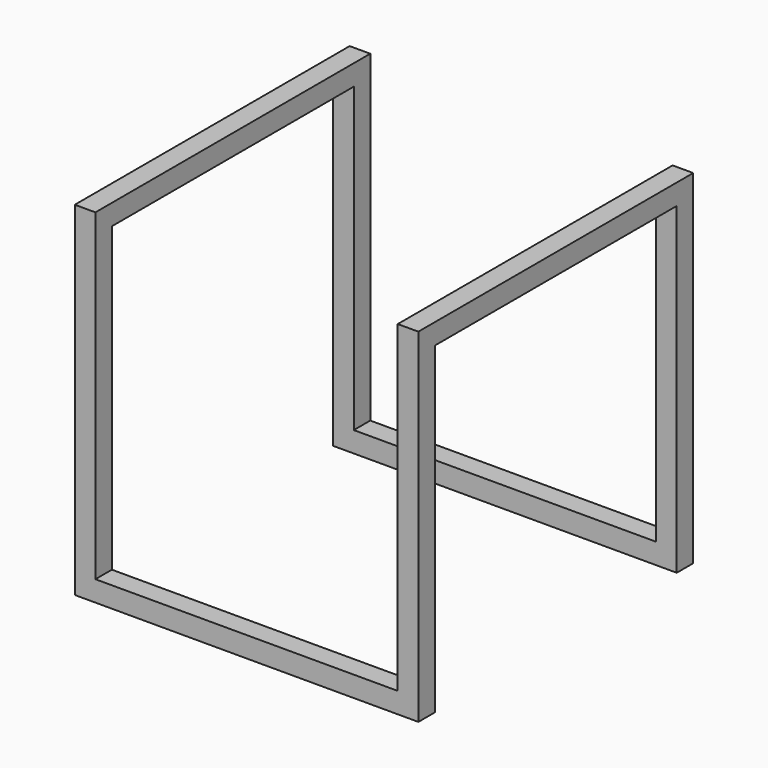
from build123d import *

# Parameters (mm, degrees)
F1_DEPTH = 100
F2_W     = 176
F2_H     = 188
F3_DEPTH = 200.001


with BuildPart() as f1:
    # F0 (on Front) → F1 (new body, symmetric)
    with BuildSketch(Plane.XZ):
        Polygon((-88, 200), (-94, 200), (-94, 6), (94, 6), (94, 200), (88, 200), (88, 12), (-88, 12), align=None)
        Polygon((-100, 200), (-100, 0), (100, 0), (100, 200), (94, 200), (94, 6), (-94, 6), (-94, 200), align=None)
    extrude(amount=F1_DEPTH, both=True)

    # F2 (on face) → F3 (cut, through all)
    with BuildSketch(Plane.YZ.offset(100)):
        with Locations((0, 94)):
            Rectangle(F2_W, F2_H)
    extrude(amount=-F3_DEPTH, mode=Mode.SUBTRACT)


solid = f1.part
